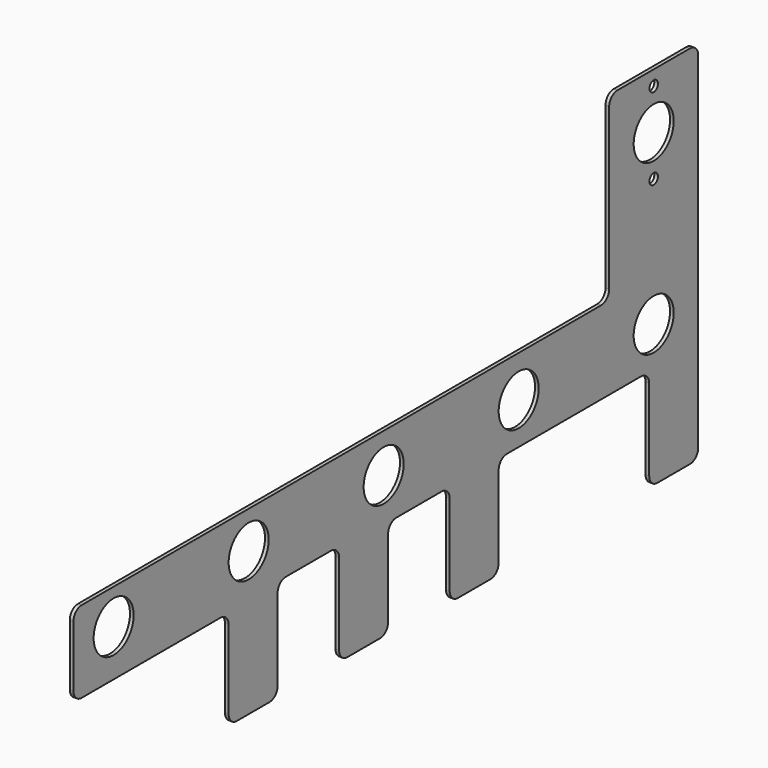
from build123d import *

# Parameters (mm, degrees)
F0_R     = 15.5702
F0_R_2   = 3.302
F1_DEPTH = 2.286


with BuildPart() as f1:
    # F0 (on Right) → F1 (new body)
    with BuildSketch(Plane.YZ):
        with BuildLine():
            Line((188.575102, 21.9202), (-215.449998, 21.9202))
            ThreePointArc((-215.449998, 21.9202), (-219.940126, 20.060328), (-221.799998, 15.5702))
            Line((-221.799998, 15.5702), (-221.799998, -22.5298))
            ThreePointArc((-221.799998, -22.5298), (-219.940126, -27.019928), (-215.449998, -28.8798))
            Line((-215.449998, -28.8798), (-107.446658, -28.8798))
            ThreePointArc((-107.446658, -28.8798), (-102.95653, -30.739672), (-101.096658, -35.2298))
            Line((-101.096658, -35.2298), (-101.096658, -84.269653))
            ThreePointArc((-101.096658, -84.269653), (-99.236786, -88.759781), (-94.746658, -90.619653))
            Line((-94.746658, -90.619653), (-69.346658, -90.619653))
            ThreePointArc((-69.346658, -90.619653), (-64.85653, -88.759781), (-62.996658, -84.269653))
            Line((-62.996658, -84.269653), (-62.996658, -33.469653))
            ThreePointArc((-62.996658, -33.469653), (-61.136786, -28.979525), (-56.646658, -27.119653))
            Line((-56.646658, -27.119653), (-21.467658, -27.119653))
            ThreePointArc((-21.467658, -27.119653), (-16.97753, -28.979525), (-15.117658, -33.469653))
            Line((-15.117658, -33.469653), (-15.117658, -84.269653))
            ThreePointArc((-15.117658, -84.269653), (-13.257786, -88.759781), (-8.767658, -90.619653))
            Line((-8.767658, -90.619653), (16.622182, -90.619653))
            ThreePointArc((16.622182, -90.619653), (21.11231, -88.759781), (22.972182, -84.269653))
            Line((22.972182, -84.269653), (22.972182, -36.009653))
            ThreePointArc((22.972182, -36.009653), (24.832054, -31.519525), (29.322182, -29.659653))
            Line((29.322182, -29.659653), (64.501182, -29.659653))
            ThreePointArc((64.501182, -29.659653), (68.99131, -31.519525), (70.851182, -36.009653))
            Line((70.851182, -36.009653), (70.851182, -86.809653))
            ThreePointArc((70.851182, -86.809653), (72.711054, -91.299781), (77.201182, -93.159653))
            Line((77.201182, -93.159653), (102.601182, -93.159653))
            ThreePointArc((102.601182, -93.159653), (107.09131, -91.299781), (108.951182, -86.809653))
            Line((108.951182, -86.809653), (108.951182, -36.009653))
            ThreePointArc((108.951182, -36.009653), (110.811054, -31.519525), (115.301182, -29.659653))
            Line((115.301182, -29.659653), (219.715502, -29.659653))
            ThreePointArc((219.715502, -29.659653), (224.20563, -31.519525), (226.065502, -36.009653))
            Line((226.065502, -36.009653), (226.065502, -86.809653))
            ThreePointArc((226.065502, -86.809653), (227.925374, -91.299781), (232.415502, -93.159653))
            Line((232.415502, -93.159653), (257.815502, -93.159653))
            ThreePointArc((257.815502, -93.159653), (262.30563, -91.299781), (264.165502, -86.809653))
            Line((264.165502, -86.809653), (264.165502, -23.309653))
            Line((264.165502, -23.309653), (264.165502, 21.9202))
            Line((264.165502, 21.9202), (264.165502, 128.21412))
            ThreePointArc((264.165502, 128.21412), (262.30563, 132.704248), (257.815502, 134.56412))
            Line((257.815502, 134.56412), (201.275102, 134.56412))
            ThreePointArc((201.275102, 134.56412), (196.784974, 132.704248), (194.925102, 128.21412))
            Line((194.925102, 128.21412), (194.925102, 28.2702))
            ThreePointArc((194.925102, 28.2702), (193.06523, 23.780072), (188.575102, 21.9202))
        make_face()
        with Locations((-190.550378, 0)):
            Circle(F0_R, mode=Mode.SUBTRACT)
        with Locations((-85.526458, -1.27)):
            Circle(F0_R, mode=Mode.SUBTRACT)
        with Locations((19.497462, -2.54)):
            Circle(F0_R, mode=Mode.SUBTRACT)
        with Locations((124.521382, -3.81)):
            Circle(F0_R, mode=Mode.SUBTRACT)
        with Locations((229.545302, -5.08)):
            Circle(F0_R, mode=Mode.SUBTRACT)
        with Locations((229.545302, 74.54392)):
            Circle(F0_R_2, mode=Mode.SUBTRACT)
        with Locations((229.545302, 99.94392)):
            Circle(F0_R, mode=Mode.SUBTRACT)
        with Locations((229.545302, 125.34392)):
            Circle(F0_R_2, mode=Mode.SUBTRACT)
    extrude(amount=F1_DEPTH)


solid = f1.part
